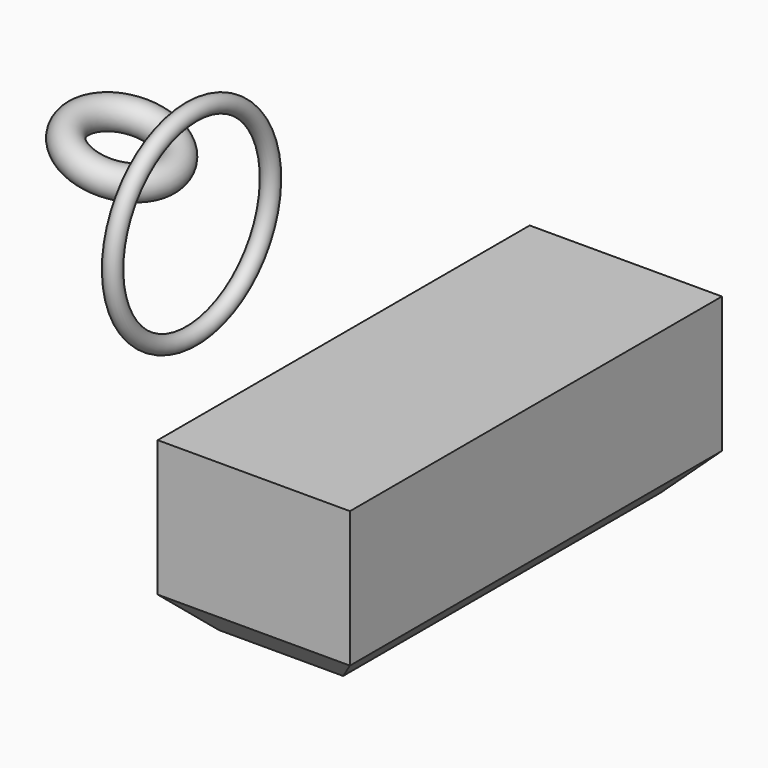
from build123d import *

# Parameters (mm, degrees)
F0_R     = 1.25
F4_R     = 2.291115
F6_W     = 28.729727
F6_H     = 69.484845
F7_DEPTH = 25.4
F2_SIZE  = 5.08


with BuildPart() as f1:
    # F0 (on Front) → F1 (revolve)
    with BuildSketch(Plane.XZ):
        with Locations((0, 14.75)):
            Circle(F0_R)
    revolve(axis=Axis((3.545721, 0, 0), (1, 0, 0)))


with BuildPart() as f5:
    # F4 (on face) → F5 (revolve)
    with BuildSketch(Plane.XZ):
        with Locations((-16.892994, 8.397464)):
            Circle(F4_R)
    revolve(axis=Axis((-17.68117, 0, -20.453736), (0.257776, 0, 0.966205)))


with BuildPart() as f7:
    # F6 (on Top) → F7 (new body)
    with BuildSketch(Plane.XY):
        with Locations((45.432769, -10.411427)):
            Rectangle(F6_W, F6_H)
    extrude(amount=-F7_DEPTH)

    # F2
    f2_edges = [f7.edges().sort_by_distance(p)[0] for p in [
        (59.797633, -10.411426, -25.4),
        (45.43277, -45.153849, -25.4),
        (45.43277, 24.330996, -25.4),
        (31.067906, -10.411426, -25.4),
    ]]
    chamfer(f2_edges, length=F2_SIZE)


solid = Compound([f1.part, f5.part, f7.part])
